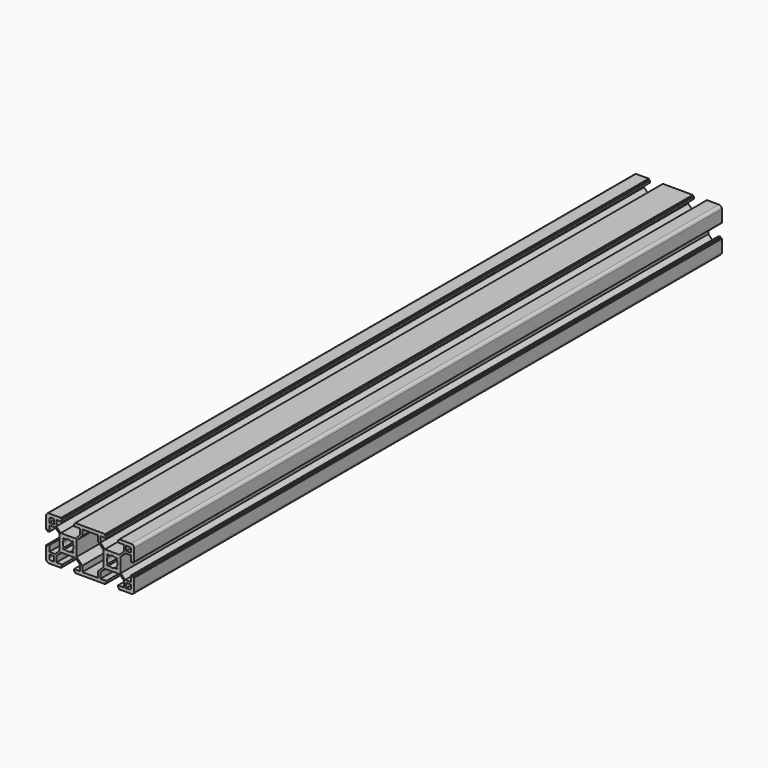
from build123d import *

# Parameters (mm, degrees)
F0_W      = 60
F0_H      = 30
F1_DEPTH  = 500
F2_R      = 3.65
F3_DEPTH  = 500.001
F5_DEPTH  = 500.001
F6_R      = 2
F8_DEPTH  = 500.001
F10_DEPTH = 500.001
F11_W     = 0.8
F11_H     = 0.8
F12_DEPTH = 500.001


with BuildPart() as f1:
    # F0 (on Front) → F1 (new body)
    with BuildSketch(Plane.XZ):
        Rectangle(F0_W, F0_H)
    extrude(amount=-F1_DEPTH)

    # F2 (on face) → F3 (cut, through all)
    with BuildSketch(Plane.XZ):
        with Locations((-15, 0)):
            Circle(F2_R)
        with Locations((15, 0)):
            Circle(F2_R)
    extrude(amount=-F3_DEPTH, mode=Mode.SUBTRACT)

    # F4 (on face) → F5 (cut, through all)
    with BuildSketch(Plane.XZ):
        Polygon((-11, 15), (-15, 15), (-19, 15), (-19, 12.8), (-23, 12.8), (-23, 8.8), (-20, 5.8), (-15, 5.8), (-10, 5.8), (-7, 8.8), (-7, 12.8), (-11, 12.8), align=None)
        Polygon((19, 12.8), (19, 15), (15, 15), (11, 15), (11, 12.8), (7, 12.8), (7, 8.8), (10, 5.8), (15, 5.8), (20, 5.8), (23, 8.8), (23, 12.8), align=None)
        Polygon((23.8, 8), (20.8, 5), (20.8, 0), (20.8, -5), (23.8, -8), (27.8, -8), (27.8, -4), (30, -4), (30, 0), (30, 4), (27.8, 4), (27.8, 8), align=None)
        Polygon((23, -8.8), (20, -5.8), (15, -5.8), (10, -5.8), (7, -8.8), (7, -12.8), (11, -12.8), (11, -15), (15, -15), (19, -15), (19, -12.8), (23, -12.8), align=None)
        Polygon((-20.8, 0), (-20.8, 5), (-23.8, 8), (-27.8, 8), (-27.8, 4), (-30, 4), (-30, 0), (-30, -4), (-27.8, -4), (-27.8, -8), (-23.8, -8), (-20.8, -5), align=None)
        Polygon((-23, -12.8), (-19, -12.8), (-19, -15), (-15, -15), (-11, -15), (-11, -12.8), (-7, -12.8), (-7, -8.8), (-10, -5.8), (-15, -5.8), (-20, -5.8), (-23, -8.8), align=None)
        Polygon((-5.3, 8.9), (-9.2, 5), (-9.2, 0), (-9.2, -5), (-5.3, -8.9), (-5.3, -12.8), (0, -12.8), (5.3, -12.8), (5.3, -8.9), (9.2, -5), (9.2, 0), (9.2, 5), (5.3, 8.9), (5.3, 12.8), (0, 12.8), (-5.3, 12.8), align=None)
    extrude(amount=-F5_DEPTH, mode=Mode.SUBTRACT)

    # F6
    f6_edges = [f1.edges().sort_by_distance(p)[0] for p in [
        (-30, 250, 15),
        (30, 250, 15),
        (30, 250, -15),
        (-30, 250, -15),
    ]]
    fillet(f6_edges, radius=F6_R)

    # F7 (on face) → F8 (cut, through all)
    with BuildSketch(Plane.XZ):
        with BuildLine():
            Line((-27.8, 9.5), (-24.5, 9.5))
            Line((-24.5, 9.5), (-24.5, 12.8))
            Line((-24.5, 12.8), (-26.8, 12.8))
            ThreePointArc((-26.8, 12.8), (-27.507107, 12.507107), (-27.8, 11.8))
            Line((-27.8, 11.8), (-27.8, 9.5))
        make_face()
        with BuildLine():
            Line((26.8, 12.8), (24.5, 12.8))
            Line((24.5, 12.8), (24.5, 9.5))
            Line((24.5, 9.5), (27.8, 9.5))
            Line((27.8, 9.5), (27.8, 11.8))
            ThreePointArc((27.8, 11.8), (27.507107, 12.507107), (26.8, 12.8))
        make_face()
        with BuildLine():
            Line((24.5, -12.8), (26.8, -12.8))
            ThreePointArc((26.8, -12.8), (27.507107, -12.507107), (27.8, -11.8))
            Line((27.8, -11.8), (27.8, -9.5))
            Line((27.8, -9.5), (24.5, -9.5))
            Line((24.5, -9.5), (24.5, -12.8))
        make_face()
        with BuildLine():
            Line((-24.5, -9.5), (-27.8, -9.5))
            Line((-27.8, -9.5), (-27.8, -11.8))
            ThreePointArc((-27.8, -11.8), (-27.507107, -12.507107), (-26.8, -12.8))
            Line((-26.8, -12.8), (-24.5, -12.8))
            Line((-24.5, -12.8), (-24.5, -9.5))
        make_face()
    extrude(amount=-F8_DEPTH, mode=Mode.SUBTRACT)

    # F9 (on face) → F10 (cut, through all)
    with BuildSketch(Plane.XZ):
        Polygon((-18.641792, 2.841792), (-17.949755, 2.149755), (-17.216416, 2.9), (-17.9, 3.583584), align=None)
        Polygon((-17.841792, -3.641792), (-17.149755, -2.949755), (-17.9, -2.216416), (-18.583584, -2.9), align=None)
        Polygon((-11.358208, -2.841792), (-12.050245, -2.149755), (-12.783584, -2.9), (-12.1, -3.583584), align=None)
        Polygon((-12.158208, 3.641792), (-12.850245, 2.949755), (-12.1, 2.216416), (-11.416416, 2.9), align=None)
        Polygon((11.416416, 2.9), (12.1, 2.216416), (12.850245, 2.949755), (12.158208, 3.641792), align=None)
        Polygon((17.216416, 2.9), (17.949755, 2.149755), (18.641792, 2.841792), (17.9, 3.583584), align=None)
        Polygon((17.841792, -3.641792), (18.583584, -2.9), (17.9, -2.216416), (17.149755, -2.949755), align=None)
        Polygon((12.783584, -2.9), (12.050245, -2.149755), (11.358208, -2.841792), (12.1, -3.583584), align=None)
    extrude(amount=-F10_DEPTH, mode=Mode.SUBTRACT)

    # F11 (on face) → F12 (cut, through all)
    with BuildSketch(Plane.XZ):
        with Locations((10.6, 14.6)):
            Rectangle(F11_W, F11_H)
        with Locations((19.4, 14.6)):
            Rectangle(F11_W, F11_H)
        with Locations((29.6, -4.4)):
            Rectangle(F11_W, F11_H)
        with Locations((29.6, 4.4)):
            Rectangle(F11_W, F11_H)
        with Locations((10.6, -14.6)):
            Rectangle(F11_W, F11_H)
        with Locations((19.4, -14.6)):
            Rectangle(F11_W, F11_H)
        with Locations((-10.6, 14.6)):
            Rectangle(F11_W, F11_H)
        with Locations((-19.4, 14.6)):
            Rectangle(F11_W, F11_H)
        with Locations((-29.6, 4.4)):
            Rectangle(F11_W, F11_H)
        with Locations((-29.6, -4.4)):
            Rectangle(F11_W, F11_H)
        with Locations((-19.4, -14.6)):
            Rectangle(F11_W, F11_H)
        with Locations((-10.6, -14.6)):
            Rectangle(F11_W, F11_H)
    extrude(amount=-F12_DEPTH, mode=Mode.SUBTRACT)


solid = f1.part
